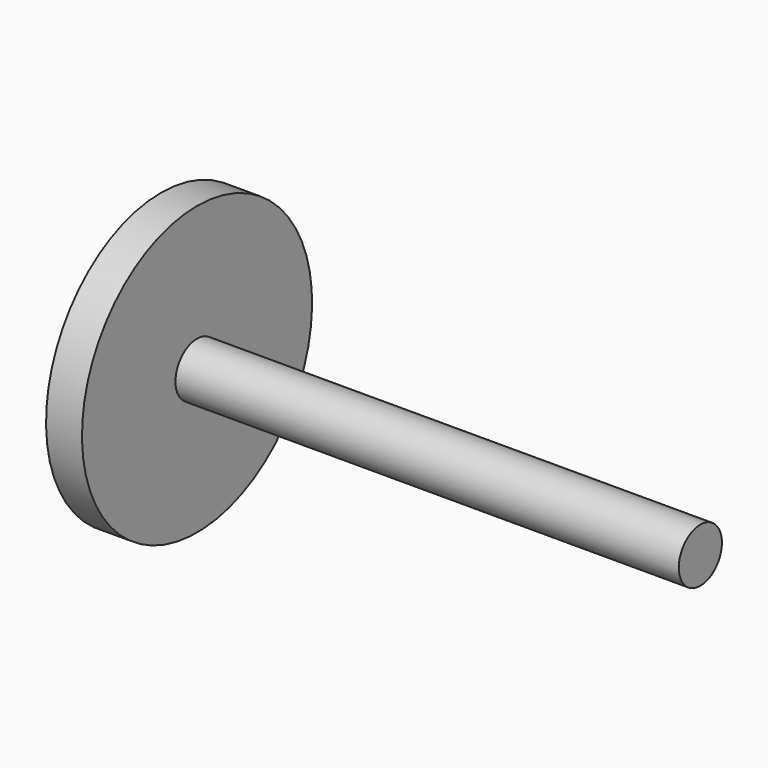
from build123d import *

# Parameters (mm, degrees)
F0_W   = 10
F0_H   = 32.5
F0_H_2 = 7.5
F0_W_2 = 140


with BuildPart() as f1:
    # F0 (on Front) → F1 (revolve)
    with BuildSketch(Plane.XZ):
        with Locations((0.733031, 23.75)):
            Rectangle(F0_W, F0_H)
        with Locations((0.733031, 3.75)):
            Rectangle(F0_W, F0_H_2)
        with Locations((75.733031, 3.75)):
            Rectangle(F0_W_2, F0_H_2)
    revolve(axis=Axis((73.495366, 0, 0), (1, 0, 0)))


solid = f1.part
